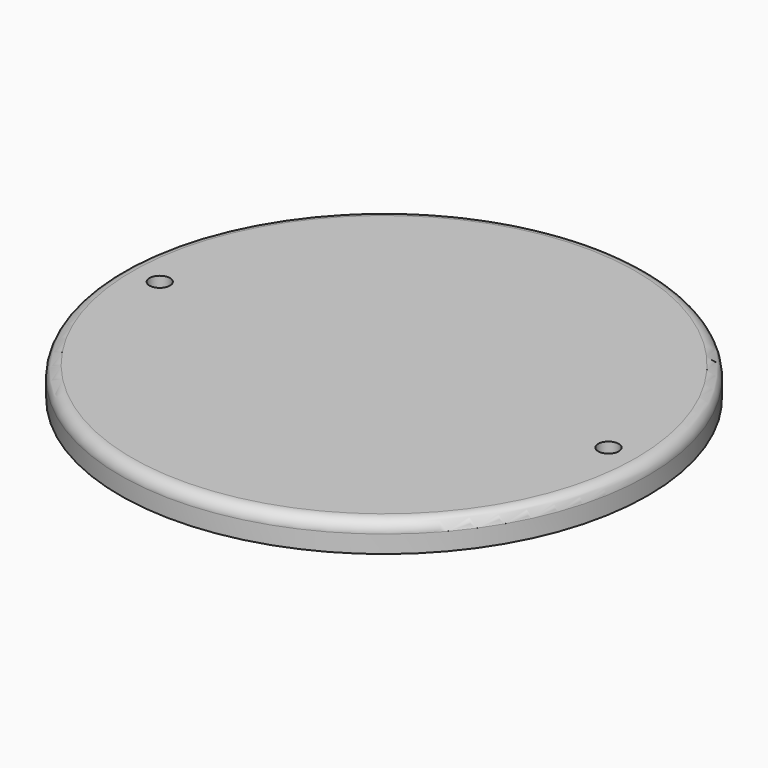
from build123d import *

# Parameters (mm, degrees)
F0_R     = 45
F0_R_2   = 1.75
F1_DEPTH = 5
F2_R     = 2


with BuildPart() as f1:
    # F0 (on Top) → F1 (new body)
    with BuildSketch(Plane.XY):
        Circle(F0_R)
        with Locations((-38.25, 0)):
            Circle(F0_R_2, mode=Mode.SUBTRACT)
        with Locations((38.25, 0)):
            Circle(F0_R_2, mode=Mode.SUBTRACT)
    extrude(amount=F1_DEPTH)

    # F2
    f2_edges = [f1.edges().sort_by_distance(p)[0] for p in [
        (-45, 0, 5),
    ]]
    fillet(f2_edges, radius=F2_R)


solid = f1.part
